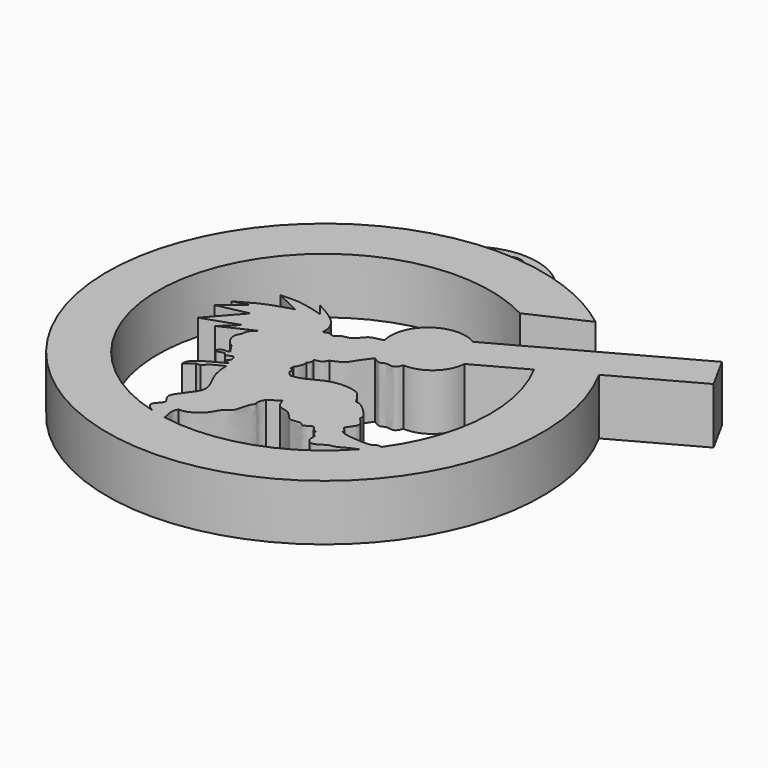
from build123d import *

# Parameters (mm, degrees)
F1_DEPTH = 6.096
F0_R     = 1.5875
F2_DEPTH = 3.81


with BuildPart() as f1:
    # F0 (on Top) → F1 (new body)
    with BuildSketch(Plane.XY):
        with BuildLine():
            Line((5.8867475927, 11.1237062895), (11.8987785587, 13.9014140421))
            ThreePointArc((11.8987785587, 13.9014140421), (8.0290627856, 16.3361089294), (3.7636845033, 17.9820091293))
            ThreePointArc((3.7636845033, 17.9820091293), (-3.3954118482, 18.8366856864), (-10.4799740032, 17.4979879394))
            ThreePointArc((-10.4799740032, 17.4979879394), (-11.0808369055, -26.9486704454), (18.2175282381, 6.4799442091))
            Line((18.2175282381, 6.4799442091), (26.8803321817, 11.2371450471))
            Line((26.8803321817, 11.2371450471), (24.8855538666, 14.8696117103))
            Line((24.8855538666, 14.8696117103), (6.0688573867, 4.5363749377))
            ThreePointArc((6.0688573867, 4.5363749377), (1.5485541538, 4.3183138602), (-0.0035108123, 0.0672214956))
            add(Edge.make_bspline(
                [(-5.0561761632, -2.0280998782), (-4.8052523935, -2.0052493458), (-4.5554973858, -1.7169716893), (-3.8721323539, -2.2363446777), (-3.3548276699, -1.4668098954), (-2.3409041596, -1.6157743821), (-1.4615129508, -0.1152036218), (-0.8276142997, -0.1832830909), (-0.0035108123, 0.0672214956)],
                knots=[0, 0, 0, 0, 0.1304890325, 0.2664678048, 0.4141580612, 0.5790826607, 0.7832343573, 1, 1, 1, 1], degree=3))
            add(Edge.make_bspline(
                [(-8.2654384896, 1.6376097919), (-7.389693912, 1.1604357726), (-5.8861288299, 0.3603296399), (-5.0489802762, -1.0389067769), (-5.0253330334, -1.6987220963), (-5.0561761632, -2.0280998782)],
                knots=[0, 0, 0, 0, 0.4308732974, 0.7474054636, 1, 1, 1, 1], degree=3))
            Line((-8.2654384896, 1.6376097919), (-7.2858450003, 0.3951979743))
            add(Edge.make_bspline(
                [(-12.0882438496, 1.0164040141), (-11.4067549595, 1.058396756), (-9.9429942787, 1.148592393), (-8.2113048726, 0.6575980992), (-7.2858450003, 0.3951979743)],
                knots=[0, 0, 0, 0, 0.4655739828, 1, 1, 1, 1], degree=3))
            Line((-12.0882438496, 1.0164040141), (-9.4839576632, -0.2499000984))
            add(Edge.make_bspline(
                [(-14.6208517253, -2.471906133), (-13.8076002883, -1.9883433809), (-12.1849424204, -1.0235041338), (-10.382862529, -0.5073604302), (-9.4839576632, -0.2499000984)],
                knots=[0, 0, 0, 0, 0.5011847865, 1, 1, 1, 1], degree=3))
            Line((-14.6208517253, -2.471906133), (-12.9961594939, -2.0418404602))
            Line((-12.9961594939, -2.0418404602), (-15.3376283124, -3.9054576773))
            Line((-15.3376283124, -3.9054576773), (-11.9926733896, -3.2125744037))
            Line((-11.9926733896, -3.2125744037), (-14.9792395532, -6.6053140908))
            Line((-14.9792395532, -6.6053140908), (-11.1564351246, -5.2912244573))
            Line((-11.1564351246, -5.2912244573), (-12.8766968846, -6.8920240737))
            Line((-12.8766968846, -6.8920240737), (-9.4839576632, -5.2912244573))
            add(Edge.make_bspline(
                [(-9.4839576632, -8.8751045987), (-9.7214353508, -8.7113976887), (-10.2222986682, -8.3661240469), (-10.6584578516, -7.206814406), (-10.1417833527, -6.6110022253), (-10.2096062603, -5.9495745548), (-9.744435968, -5.5275453405), (-9.4839576632, -5.2912244573)],
                knots=[0, 0, 0, 0, 0.2071701711, 0.4369418459, 0.6195222868, 0.7869464336, 1, 1, 1, 1], degree=3))
            add(Edge.make_bspline(
                [(-7.6920175925, -11.5032820031), (-7.9692650839, -11.4154311253), (-8.4745037728, -11.2553367002), (-7.7957957003, -11.0081060678), (-8.1086664998, -9.971175728), (-8.9123456787, -10.8005258041), (-9.0207675053, -10.0186265098), (-10.2105999535, -10.7699649013), (-9.9075239172, -9.7221438075), (-8.4226868077, -10.0631216343), (-9.4704822179, -9.1258085801), (-9.4839576632, -8.8751045987)],
                knots=[0, 0, 0, 0, 0.0923606595, 0.1682225049, 0.2643211857, 0.3624727099, 0.4362750473, 0.5470493631, 0.6319455086, 0.741548291, 0.8627573568, 0.8627573568, 0.8627573568, 0.8627573568], degree=3))
            add(Edge.make_bspline(
                [(-10.7741542161, -14.0119986609), (-10.7539713323, -13.7801954198), (-10.691221495, -13.0595047672), (-8.9042361966, -12.1322763123), (-7.6920175925, -11.5032820031)],
                knots=[0, 0, 0, 0, 0.3216404157, 1, 1, 1, 1], degree=3))
            Line((-10.7741542161, -14.0119986609), (-9.8423454911, -13.2952220738))
            Line((-9.8423454911, -13.2952220738), (-9.3644950539, -13.2952220738))
            add(Edge.make_bspline(
                [(-7.5269772834, -12.0451447671), (-7.9724583732, -12.2531240469), (-8.7699264363, -12.6254335282), (-9.1824258111, -13.0901189289), (-9.3644950539, -13.2952220738)],
                knots=[0, 0, 0, 0, 0.5586193484, 1, 1, 1, 1], degree=3))
            add(Edge.make_bspline(
                [(-7.397079944, -22.3324749056), (-7.8604964767, -22.0390295753), (-8.6343949459, -21.4503998264), (-6.9766627437, -20.3844329268), (-8.7066737303, -19.4045343199), (-5.7464549382, -16.8846633844), (-6.8702421809, -14.9081728235), (-7.5247697532, -13.4385768324), (-7.5269772834, -12.0451447671)],
                knots=[0, 0, 0, 0, 0.1349565674, 0.2715491506, 0.399037603, 0.6139523813, 0.7828605958, 1, 1, 1, 1], degree=3))
            ThreePointArc((-7.397079944, -22.3324749056), (-19.4579282459, 1.8215757665), (5.8867475927, 11.1237062895))
        make_face()
        with BuildLine():
            ThreePointArc((10.8414935653, -16.970884068), (3.2969749422, -21.9765541656), (-5.7277879962, -22.704666991))
            add(Edge.make_bspline(
                [(-5.7277879962, -22.704666991), (-5.8304858715, -22.2419378769), (-6.002399152, -21.4353468045), (-5.8016359319, -20.9820877185), (-5.7182284072, -20.7938309759)],
                knots=[0, 0, 0, 0, 0.5851787071, 1, 1, 1, 1], degree=3))
            add(Edge.make_bspline(
                [(-5.7182284072, -20.7938309759), (-5.5585550738, -20.8192670375), (-5.1136431942, -20.8901417774), (-3.4176554003, -20.0511811073), (-2.8611328065, -18.449542352), (-1.7991824572, -18.1692459538), (-1.6337116929, -16.3164767808), (-1.1203057387, -15.9570585052), (-1.4241495923, -15.5983924705), (-1.1760494561, -15.1145078113), (-1.0215371149, -14.8131530732)],
                knots=[0, 0, 0, 0, 0.095605993, 0.2663954035, 0.4284975543, 0.5522798841, 0.7194401117, 0.8093035013, 0.8812376207, 1, 1, 1, 1], degree=3))
            Line((-1.0215371149, -14.8131530732), (0.1779773302, -14.0528967604))
            add(Edge.make_bspline(
                [(0.1779773302, -14.0528967604), (0.3092797904, -14.4479263209), (0.5771747969, -15.253900912), (2.0298860809, -15.1790822404), (2.7135183028, -16.6768469267), (3.9949047962, -16.0195351771), (4.3443453703, -16.8168587317), (5.2722641994, -15.6783296046), (5.6988411673, -16.9393135889), (5.9047746176, -16.4362192771), (6.0357112862, -17.3264667423), (6.4846857386, -17.321795982), (6.287026415, -18.0527710661), (6.8889818424, -18.8759414896), (7.9096978376, -18.277984445), (8.2907776784, -17.9473530671), (8.9987787845, -17.9166730304), (9.8280020654, -17.4057177734), (10.2820469646, -17.1861061685), (10.6542873447, -17.0483441415), (10.8414935653, -16.970884068)],
                knots=[0, 0, 0, 0, 0.0692582141, 0.1412542886, 0.2164413427, 0.2837737527, 0.3302241415, 0.3923603016, 0.4498696132, 0.4755433878, 0.5272274393, 0.5640871182, 0.6150180248, 0.6734553994, 0.7389274906, 0.7857723252, 0.8390831329, 0.9031038646, 0.9500301979, 1, 1, 1, 1], degree=3))
        make_face(mode=Mode.SUBTRACT)
        with BuildLine():
            add(Edge.make_bspline(
                [(4.1552954353, -2.5438051671), (4.0171045569, -2.8500145572), (3.7432068015, -3.4569291783), (2.7639523318, -3.0624063605), (2.2734467709, -3.5781422654), (1.7365614145, -3.2216941066), (1.434928854, -3.021434648)],
                knots=[0, 0, 0, 0, 0.2621564288, 0.519600557, 0.7301023164, 1, 1, 1, 1], degree=3))
            ThreePointArc((4.1552954353, -2.5438051671), (6.7883241866, -1.6045153718), (8.0440333341, 0.8931435844))
            Line((8.0440333341, 0.8931435844), (13.2927230547, 3.7754749058))
            ThreePointArc((13.2927230547, 3.7754749058), (15.4499704129, -5.9878175308), (12.0976205306, -15.4078677236))
            add(Edge.make_bspline(
                [(7.844561711, -15.1903405786), (7.7964564102, -15.2213247288), (7.6399296044, -15.3221873032), (8.4266272044, -15.6963237625), (11.3311872384, -15.8595782699), (11.3125722341, -15.4024799437), (11.7966330128, -15.4110879916), (12.0976205306, -15.4078677236)],
                knots=[0, 0, 0, 0, 0.0882801796, 0.2864510314, 0.6844313798, 0.7989383409, 1, 1, 1, 1], degree=3))
            Line((7.844561711, -15.1903405786), (7.3523344472, -14.6354669705))
            add(Edge.make_bspline(
                [(7.3433849029, -12.4696679413), (7.5998596103, -12.7197489932), (8.0259673312, -13.1352342787), (8.0791749245, -13.6351645963), (7.6342045754, -14.2475477953), (7.3523344472, -14.6354669705)],
                knots=[0, 0, 0, 0, 0.356577474, 0.5924187077, 1, 1, 1, 1], degree=3))
            add(Edge.make_bspline(
                [(5.186534021, -10.3217670694), (5.3502655039, -10.3278850352), (5.7766461829, -10.343817111), (6.7969942198, -11.2790731201), (7.4331274029, -12.0130328092), (7.3687850024, -12.3404250767), (7.3433849029, -12.4696679413)],
                knots=[0, 0, 0, 0, 0.2085765936, 0.543163893, 0.819657295, 1, 1, 1, 1], degree=3))
            add(Edge.make_bspline(
                [(-2.1521274466, -10.0532798097), (-1.7619053691, -9.9834650067), (-0.9536875885, -9.8388664092), (0.2212955547, -9.0840177368), (1.8495752372, -8.4911852977), (3.7519042358, -8.6754733597), (4.3663480969, -9.0479129403), (4.9575499127, -9.8817573876), (5.1193466634, -10.1926616565), (5.186534021, -10.3217670694)],
                knots=[0, 0, 0, 0, 0.1458607325, 0.3021029416, 0.4804271091, 0.6609046411, 0.7738950028, 0.9061081434, 1, 1, 1, 1], degree=3))
            add(Edge.make_bspline(
                [(-2.6980524417, -9.4805061817), (-2.5727581233, -9.7310943529), (-2.4116656277, -9.8832370713), (-2.1521274466, -10.0532798097)],
                knots=[0, 0, 0, 0, 0.7912671667, 0.7912671667, 0.7912671667, 0.7912671667], degree=3))
            add(Edge.make_bspline(
                [(-3.0023383442, -9.0240770951), (-2.87371462, -8.9955288159), (-2.5898114331, -8.9325159659), (-2.6597822466, -9.2867562092), (-2.6980524417, -9.4805061817)],
                knots=[0, 0, 0, 0, 0.4530548796, 1, 1, 1, 1], degree=3))
            Line((-3.0023383442, -9.0240770951), (-3.0023383442, -8.5407998413))
            add(Edge.make_bspline(
                [(-2.5996067561, -7.3057566769), (-2.5818434989, -7.4434045963), (-2.5419828023, -7.7522861189), (-2.8350463031, -8.4293415696), (-2.9601062441, -8.5126627174), (-3.0023383442, -8.5407998413)],
                knots=[0, 0, 0, 0, 0.3474292505, 0.7796302074, 1, 1, 1, 1], degree=3))
            add(Edge.make_bspline(
                [(-2.4595540017, -6.5097440965), (-2.3982765087, -6.6500499959), (-2.2735281747, -6.9356838613), (-2.4896472805, -7.1809615659), (-2.5996067561, -7.3057566769)],
                knots=[0, 0, 0, 0, 0.4912089088, 1, 1, 1, 1], degree=3))
            add(Edge.make_bspline(
                [(-1.3127127895, -5.7929679751), (-1.4252677555, -5.9961183616), (-1.6586042945, -6.4172673326), (-2.1863684111, -6.4782023915), (-2.4595540017, -6.5097440965)],
                knots=[0, 0, 0, 0, 0.4823717982, 1, 1, 1, 1], degree=3))
            add(Edge.make_bspline(
                [(1.434928854, -3.021434648), (1.1491356371, -3.3919008469), (0.5937613626, -4.1118178508), (0.010684836, -5.2672359733), (-0.8634549343, -5.6144961183), (-1.3127127895, -5.7929679751)],
                knots=[0, 0, 0, 0, 0.3400593864, 0.6608282626, 1, 1, 1, 1], degree=3))
        make_face(mode=Mode.SUBTRACT)
    extrude(amount=F1_DEPTH)

    # F0 (on Top) → F2 (join)
    with BuildSketch(Plane.XY):
        with BuildLine():
            ThreePointArc((-10.4799740032, 17.4979879394), (-3.3954118482, 18.8366856864), (3.7636845033, 17.9820091293))
            ThreePointArc((3.7636845033, 17.9820091293), (-3.5394467278, 23.0753092868), (-10.4799740032, 17.4979879394))
        make_face()
        with Locations((-3.2872720512, 20.7672882825)):
            Circle(F0_R, mode=Mode.SUBTRACT)
    extrude(amount=F2_DEPTH)


solid = f1.part
